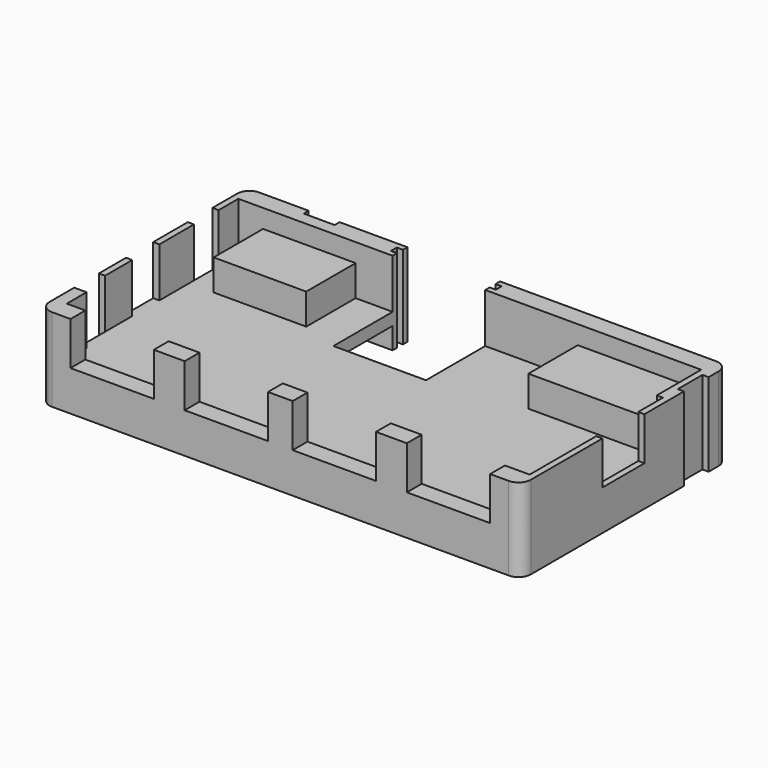
from build123d import *

# Parameters (mm, degrees)
F1_DEPTH  = 2
F2_W      = 1
F2_H      = 7
F2_H_2    = 5.5
F2_W_2    = 5
F2_H_3    = 3
F2_W_3    = 4
F3_DEPTH  = 8
F4_W      = 68
F4_H      = 3
F4_W_2    = 1
F4_H_2    = 8.5
F5_DEPTH  = 1
F6_W      = 15
F6_H      = 10
F6_W_2    = 20
F7_DEPTH  = 5
F9_DEPTH  = 3.5
F10_R     = 3.5
F10_R_2   = 1.7
F11_DEPTH = 2
F13_R     = 2
F14_R     = 1


with BuildPart() as f1:
    # F0 (on Top) → F1 (new body)
    with BuildSketch(Plane.XY):
        Polygon((0, 7), (0, 0), (78, 0), (78, 33), (77, 33), (77, 38), (78, 38), (78, 42), (41, 42), (41, 41.1), (42, 41.1), (42, 39.9), (41, 39.9), (41, 27), (26, 27), (26, 39.9), (25, 39.9), (25, 41.1), (26, 41.1), (26, 42), (15, 42), (15, 41), (10, 41), (10, 42), (0, 42), (0, 35), (1, 35), (1, 30), (0, 30), (0, 12), (1, 12), (1, 7), align=None)
    extrude(amount=F1_DEPTH)

    # F2 (on face) → F3 (join)
    with BuildSketch(Plane.XY.offset(2)):
        Polygon((26, 42), (15, 42), (15, 41), (10, 41), (10, 42), (0, 42), (0, 35), (1, 35), (1, 39), (26, 39), (26, 39.9), (25, 39.9), (25, 41.1), (26, 41.1), align=None)
        with Locations((0.5, 26.5)):
            Rectangle(F2_W, F2_H)
        with Locations((0.5, 14.75)):
            Rectangle(F2_W, F2_H_2)
        Polygon((2, 7), (0, 7), (0, 0), (5, 0), (5, 3), (2, 3), align=None)
        Polygon((41, 39.9), (41, 39), (76, 39), (76, 30), (77, 30), (77, 25), (78, 25), (78, 33), (77, 33), (77, 38), (78, 38), (78, 42), (41, 42), (41, 41.1), (42, 41.1), (42, 39.9), align=None)
        Polygon((78, 0), (78, 16.5), (77, 16.5), (77, 3), (73, 3), (73, 0), align=None)
        with Locations((21, 1.5)):
            Rectangle(F2_W_2, F2_H_3)
        with Locations((39, 1.5)):
            Rectangle(F2_W_3, F2_H_3)
        with Locations((57, 1.5)):
            Rectangle(F2_W_2, F2_H_3)
    extrude(amount=F3_DEPTH)

    # F4 (on face) → F5 (join)
    with BuildSketch(Plane.XY.offset(2)):
        with Locations((39, 1.5)):
            Rectangle(F4_W, F4_H)
        with Locations((77.5, 20.75)):
            Rectangle(F4_W_2, F4_H_2)
    extrude(amount=F5_DEPTH)

    # F6 (on face) → F7 (join)
    with BuildSketch(Plane.XY.offset(2)):
        with Locations((12.5, 34)):
            Rectangle(F6_W, F6_H)
        with Locations((66, 34)):
            Rectangle(F6_W_2, F6_H)
    extrude(amount=F7_DEPTH)

    # F8 (on face) → F9 (join)
    with BuildSketch(Plane(origin=(0, 0, 0), x_dir=(1, 0, 0), z_dir=(0, 0, -1))):
        Polygon((78, 0), (0, 0), (0, -7), (1, -7), (1, -12), (0, -12), (0, -30), (1, -30), (1, -35), (0, -35), (0, -42), (10, -42), (10, -41), (15, -41), (15, -42), (26, -42), (26, -41.1), (25, -41.1), (25, -39.9), (26, -39.9), (26, -39), (2, -39), (2, -1), (77, -1), (77, -32), (76, -32), (76, -39), (41, -39), (41, -39.9), (42, -39.9), (42, -41.1), (41, -41.1), (41, -42), (78, -42), (78, -38), (77, -38), (77, -33), (78, -33), align=None)
    extrude(amount=F9_DEPTH)

    # F10 (on face) → F11 (join)
    with BuildSketch(Plane(origin=(0, 0, 0), x_dir=(1, 0, 0), z_dir=(0, 0, -1))):
        with Locations((73.25, -4.6)):
            Circle(F10_R)
        with Locations((73.25, -4.6)):
            Circle(F10_R_2, mode=Mode.SUBTRACT)
        with Locations((73.25, -27.65)):
            Circle(F10_R)
        with Locations((73.25, -27.65)):
            Circle(F10_R_2, mode=Mode.SUBTRACT)
        with Locations((15.25, -4.6)):
            Circle(F10_R)
        with Locations((15.25, -4.6)):
            Circle(F10_R_2, mode=Mode.SUBTRACT)
        with Locations((15.25, -27.65)):
            Circle(F10_R)
        with Locations((15.25, -27.65)):
            Circle(F10_R_2, mode=Mode.SUBTRACT)
    extrude(amount=F11_DEPTH)

    # F12: union 

    # F13
    f13_edges = [f1.edges().sort_by_distance(p)[0] for p in [
        (78, 0, 3.25),
        (78, 42, 3.25),
        (0, 0, 3.25),
        (0, 42, 3.25),
    ]]
    fillet(f13_edges, radius=F13_R)

    # F14
    f14_edges = [f1.edges().sort_by_distance(p)[0] for p in [
        (77, 1, -1.75),
    ]]
    fillet(f14_edges, radius=F14_R)


solid = f1.part
